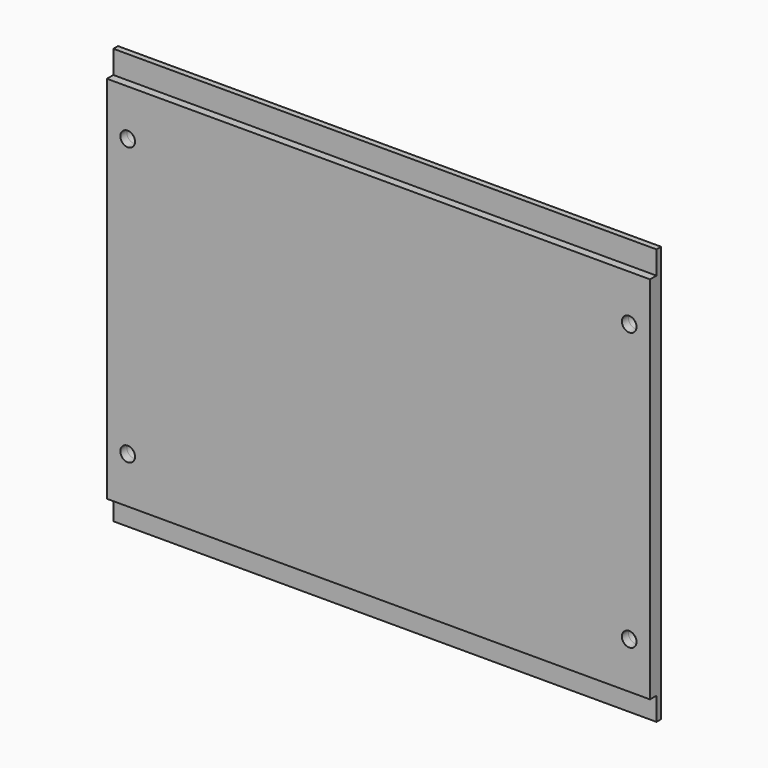
from build123d import *

# Parameters (mm, degrees)
F0_W     = 298.45
F0_H     = 203.2
F0_R     = 4.031729
F1_DEPTH = 4.445
F0_H_2   = 12.7
F2_DEPTH = 3.175


with BuildPart() as f1:
    # F0 (on Front) → F1 (new body)
    with BuildSketch(Plane.XZ):
        Rectangle(F0_W, F0_H)
        with Locations((-137.795, -76.2)):
            Circle(F0_R, mode=Mode.SUBTRACT)
        with Locations((137.795, -76.2)):
            Circle(F0_R, mode=Mode.SUBTRACT)
        with Locations((-137.795, 76.2)):
            Circle(F0_R, mode=Mode.SUBTRACT)
        with Locations((137.795, 76.2)):
            Circle(F0_R, mode=Mode.SUBTRACT)
    extrude(amount=F1_DEPTH)

    # F0 (on Front) → F2 (join)
    with BuildSketch(Plane.XZ):
        with Locations((0, 107.95)):
            Rectangle(F0_W, F0_H_2)
        Rectangle(F0_W, F0_H)
        with Locations((-137.795, -76.2)):
            Circle(F0_R, mode=Mode.SUBTRACT)
        with Locations((137.795, -76.2)):
            Circle(F0_R, mode=Mode.SUBTRACT)
        with Locations((-137.795, 76.2)):
            Circle(F0_R, mode=Mode.SUBTRACT)
        with Locations((137.795, 76.2)):
            Circle(F0_R, mode=Mode.SUBTRACT)
        with Locations((0, -107.95)):
            Rectangle(F0_W, F0_H_2)
    extrude(amount=-F2_DEPTH)


solid = f1.part
